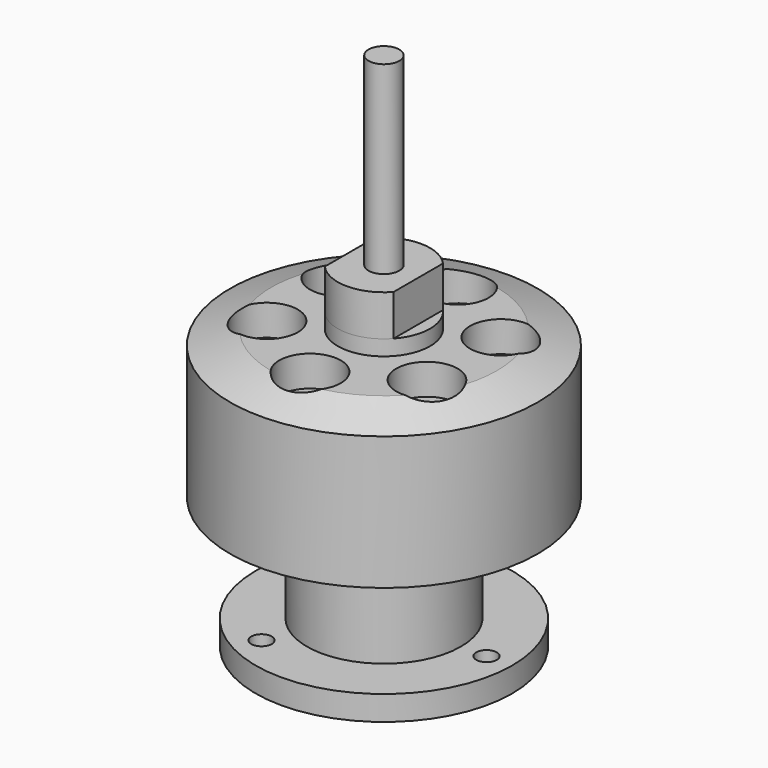
from build123d import *

# Parameters (mm, degrees)
F0_R      = 15
F1_DEPTH  = 12
F4_R      = 3
F5_DEPTH  = 3
F6_R      = 4.5
F7_DEPTH  = 1.5
F9_DEPTH  = 4
F10_R     = 1.5
F11_DEPTH = 18
F12_R     = 7.5
F13_DEPTH = 10.4
F14_R     = 12.5
F15_DEPTH = 2.4
F16_R     = 5.5
F16_R_2   = 1
F17_DEPTH = 2.4


with BuildPart() as f1:
    # F0 (on Top) → F1 (new body)
    with BuildSketch(Plane.XY):
        Circle(F0_R)
    extrude(amount=F1_DEPTH)

    # F2 (on Front) → F3 (revolve)
    with BuildSketch(Plane.XZ):
        Polygon((11, 14.4), (0, 14.4), (0, 12), (15, 12), (15, 13), align=None)
    revolve(axis=Axis((0, 0, 13.2), (0, 0, -1)))

    # F4 (on face) → F5 (cut)
    with BuildSketch(Plane.XY.offset(14.4)):
        with Locations((0, 9)):
            Circle(F4_R)
        with Locations((-7.794229, 4.5)):
            Circle(F4_R)
        with Locations((-7.794229, -4.5)):
            Circle(F4_R)
        with Locations((0, -9)):
            Circle(F4_R)
        with Locations((7.794229, -4.5)):
            Circle(F4_R)
        with Locations((7.794229, 4.5)):
            Circle(F4_R)
    extrude(amount=-F5_DEPTH, mode=Mode.SUBTRACT)

    # F6 (on face) → F7 (join)
    with BuildSketch(Plane.XY.offset(14.4)):
        Circle(F6_R)
    extrude(amount=F7_DEPTH)

    # F8 (on face) → F9 (join)
    with BuildSketch(Plane.XY.offset(15.9)):
        with BuildLine():
            Line((3.35, -3.00458), (3.35, 3.00458))
            ThreePointArc((3.35, 3.00458), (0, 4.5), (-3.35, 3.00458))
            Line((-3.35, 3.00458), (-3.35, -3.00458))
            ThreePointArc((-3.35, -3.00458), (0, -4.5), (3.35, -3.00458))
        make_face()
    extrude(amount=F9_DEPTH)

    # F10 (on face) → F11 (join)
    with BuildSketch(Plane.XY.offset(19.9)):
        Circle(F10_R)
    extrude(amount=F11_DEPTH)

    # F12 (on face) → F13 (join)
    with BuildSketch(Plane(origin=(0, 0, 0), x_dir=(1, 0, 0), z_dir=(0, 0, -1))):
        Circle(F12_R)
    extrude(amount=F13_DEPTH)

    # F14 (on face) → F15 (join)
    with BuildSketch(Plane(origin=(0, 0, -10.4), x_dir=(1, 0, 0), z_dir=(0, 0, -1))):
        Circle(F14_R)
    extrude(amount=F15_DEPTH)

    # F16 (on face) → F17 (cut)
    with BuildSketch(Plane(origin=(0, 0, -12.8), x_dir=(1, 0, 0), z_dir=(0, 0, -1))):
        Circle(F16_R)
        with Locations((10, 0)):
            Circle(F16_R_2)
        with Locations((-5, 8.660254)):
            Circle(F16_R_2)
        with Locations((-5, -8.660254)):
            Circle(F16_R_2)
    extrude(amount=-F17_DEPTH, mode=Mode.SUBTRACT)


solid = f1.part
